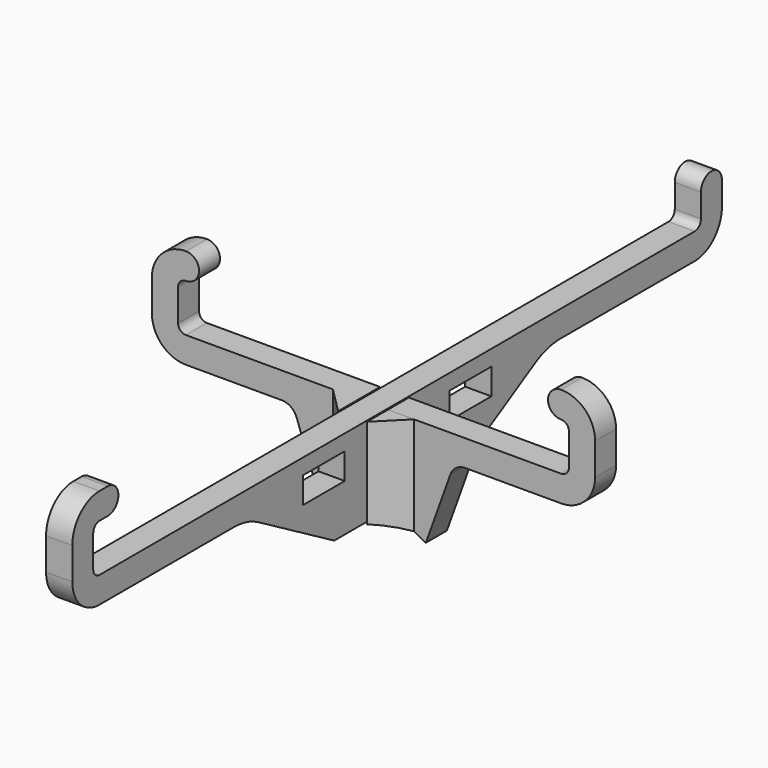
from build123d import *

# Parameters (mm, degrees)
SKETCH_W     = 10
SKETCH_H     = 5
PAD_DEPTH    = 2.5
PAD001_DEPTH = 2.5
PAD002_DEPTH = 20
POCKET_DEPTH = 10


with BuildPart() as vertical:
    # Sketch → Pad (new body, symmetric)
    with BuildSketch(Plane.YZ):
        with BuildLine():
            Line((77.5, 18.5), (77.5, 22.999992))
            ThreePointArc((77.5, 22.999992), (75.000004, 25.499992), (72.5, 23))
            Line((72.5, 18.499986), (72.5, 23))
            ThreePointArc((70.999998, 17), (72.060654, 17.439335), (72.5, 18.499986))
            Line((-70.999999, 17), (70.999998, 17))
            ThreePointArc((-72.5, 18.499986), (-72.060655, 17.439335), (-70.999999, 17))
            Line((-72.5, 24.600015), (-72.5, 18.499986))
            ThreePointArc((-70.999999, 26.1), (-72.060655, 25.660666), (-72.5, 24.600015))
            Line((-70.999999, 26.1), (-68.999999, 26.1))
            ThreePointArc((-68.999999, 26.1), (-66.499999, 28.6), (-68.999999, 31.1))
            Line((-68.999999, 31.1), (-71, 31.1))
            ThreePointArc((-71, 31.1), (-75.596194, 29.196194), (-77.5, 24.600001))
            Line((-77.5, 18.499986), (-77.5, 24.600001))
            ThreePointArc((-77.5, 18.499986), (-75.596189, 13.903801), (-71.000001, 12))
            Line((-71.000001, 12), (-38.960757, 12))
            ThreePointArc((-33, 10.392302), (-35.873877, 11.59102), (-38.960757, 12))
            Line((-15, 0), (-33, 10.392302))
            Line((-15, 0), (-2.75, 0))
            Line((-2.75, 0), (-2.75, 8.7))
            Line((-2.75, 8.7), (2.75, 8.7))
            Line((2.75, 8.7), (2.75, 0))
            Line((2.75, 0), (15, 0))
            Line((15, 0), (33, 10.392302))
            ThreePointArc((38.960757, 12), (35.873877, 11.59102), (33, 10.392302))
            Line((38.960757, 12), (71, 12))
            ThreePointArc((71, 12), (75.596194, 13.903806), (77.5, 18.5))
        make_face()
        with Locations((-17.5, 11.5)):
            Rectangle(SKETCH_W, SKETCH_H, mode=Mode.SUBTRACT)
        with Locations((17.5, 11.5)):
            Rectangle(SKETCH_W, SKETCH_H, mode=Mode.SUBTRACT)
    extrude(amount=PAD_DEPTH, both=True)


with BuildPart() as fusion:
    # Sketch001 → Pad001 (new body, symmetric)
    with BuildSketch(Plane.XZ):
        with BuildLine():
            Line((17.5, 12.000014), (35.799994, 12))
            ThreePointArc((35.799994, 12), (40.396192, 13.903804), (42.3, 18.500001))
            Line((42.3, 24.600026), (42.3, 18.500001))
            ThreePointArc((42.3, 24.600026), (40.396194, 29.196222), (35.799999, 31.100028))
            ThreePointArc((35.799999, 31.100028), (33.299999, 28.600028), (35.799999, 26.100028))
            ThreePointArc((37.3, 24.600026), (36.86066, 25.660688), (35.799999, 26.100028))
            Line((37.3, 18.500001), (37.3, 24.600026))
            ThreePointArc((35.799999, 17), (36.86066, 17.43934), (37.3, 18.500001))
            Line((2.75, 17), (35.799999, 17))
            Line((2.75, 8.3), (2.75, 17))
            Line((-2.75, 8.3), (2.75, 8.3))
            Line((-2.75, 17.000014), (-2.75, 8.3))
            Line((-35.8, 17.000014), (-2.75, 17.000014))
            ThreePointArc((-37.3, 18.500001), (-36.860656, 17.439349), (-35.8, 17.000014))
            Line((-37.3, 18.500001), (-37.3, 24.600026))
            ThreePointArc((-35.799999, 26.100014), (-36.860655, 25.660679), (-37.3, 24.600026))
            ThreePointArc((-35.799999, 26.100014), (-33.299999, 28.600014), (-35.799999, 31.100014))
            ThreePointArc((-35.799999, 31.100014), (-40.396189, 29.196213), (-42.3, 24.600026))
            Line((-42.3, 24.600026), (-42.3, 18.500001))
            ThreePointArc((-42.3, 18.500001), (-40.396189, 13.903815), (-35.799999, 12.000014))
            Line((-35.799999, 12.000014), (-17.5, 12.000014))
            ThreePointArc((-14.676752, 10.014543), (-15.774252, 11.453948), (-17.5, 12.000014))
            Line((-14.676752, 10.014543), (-10, -3))
            Line((-10, -3), (10, -3))
            Line((10, -3), (14.676746, 10.014542))
            ThreePointArc((17.5, 12.000014), (15.774248, 11.45395), (14.676746, 10.014542))
        make_face()
    extrude(amount=PAD001_DEPTH, both=True)

    # Sketch002 → Pad002 (new body)
    with BuildSketch(Plane(origin=(0, 0, 17.000014), x_dir=(-1, 0, 0), z_dir=(0, 0, 1))):
        Polygon((-7.75, 2.5), (-2.75, 7.5), (-2.75, 2.5), align=None)
        Polygon((2.75, 7.5), (2.75, 2.5), (7.75, 2.5), align=None)
    extrude(amount=-PAD002_DEPTH)

    # Sketch003 → Pocket (cut)
    with BuildSketch(Plane(origin=(0, 2.5, 0), x_dir=(1, 0, 0), z_dir=(0, 1, 0))):
        with BuildLine():
            ThreePointArc((-10, 3.138593), (0, 0), (10, 3.138593))
            Line((-10, 3.138593), (10, 3.138593))
        make_face()
    extrude(amount=-POCKET_DEPTH, mode=Mode.SUBTRACT)

    # Fusion: union Vertical
    add(vertical.part)


solid = fusion.part
